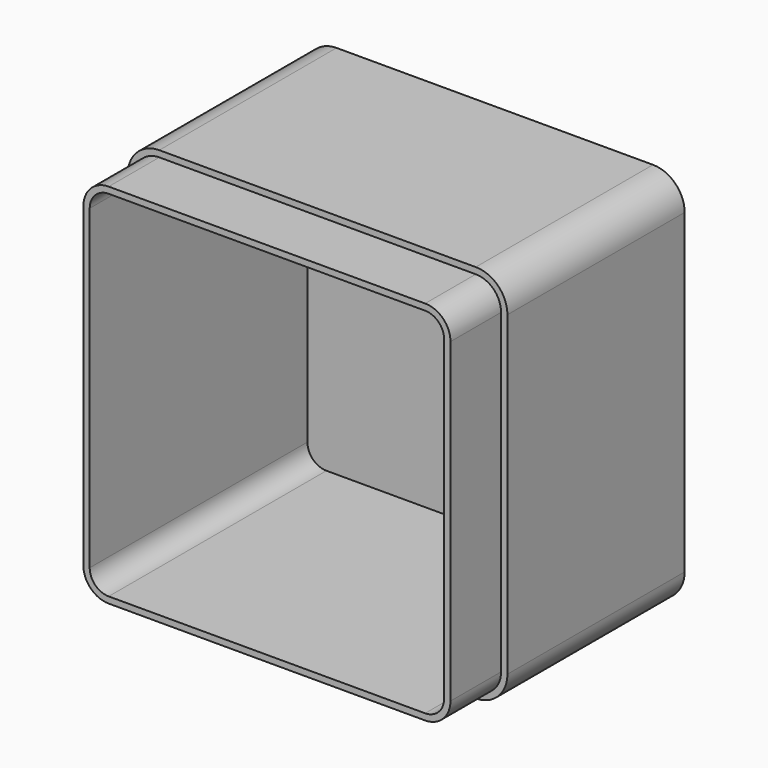
from build123d import *

# Parameters (mm, degrees)
F0_W     = 120
F0_H     = 120
F1_DEPTH = 90
F2_R     = 10
F3_T     = -4
F5_DEPTH = 20


with BuildPart() as f1:
    # F0 (on Front) → F1 (new body)
    with BuildSketch(Plane.XZ):
        with Locations((11.5896239877, 12.3393032681)):
            Rectangle(F0_W, F0_H)
    extrude(amount=F1_DEPTH)

    # F2
    f2_edges = [f1.edges().sort_by_distance(p)[0] for p in [
        (71.589624, -45, 72.339303),
        (-48.410376, -45, 72.339303),
        (71.589624, -45, -47.660697),
        (-48.410376, -45, -47.660697),
    ]]
    fillet(f2_edges, radius=F2_R)

    # F3
    f3_openings = [f1.faces().sort_by_distance(p)[0] for p in [
        (11.589624, -90, 12.339303),
    ]]
    offset(amount=F3_T, openings=f3_openings)

    # F4 (on face) → F5 (cut)
    with BuildSketch(Plane.XZ.offset(90)):
        with BuildLine():
            ThreePointArc((-38.4103760123, 72.3393032681), (-45.4814438242, 69.41037108), (-48.4103760123, 62.3393032681))
            Line((-48.4103760123, 62.3393032681), (-48.4103760123, -37.6606967319))
            ThreePointArc((-48.4103760123, -37.6606967319), (-45.4814438242, -44.7317645437), (-38.4103760123, -47.6606967319))
            Line((-38.4103760123, -47.6606967319), (61.5896239877, -47.6606967319))
            ThreePointArc((61.5896239877, -47.6606967319), (68.6606917995, -44.7317645437), (71.5896239877, -37.6606967319))
            Line((71.5896239877, -37.6606967319), (71.5896239877, 62.3393032681))
            ThreePointArc((71.5896239877, 62.3393032681), (68.6606917995, 69.41037108), (61.5896239877, 72.3393032681))
            Line((61.5896239877, 72.3393032681), (-38.4103760123, 72.3393032681))
        make_face()
        with BuildLine():
            ThreePointArc((-46.4103743434, 62.3393032681), (-44.0672290817, 67.9961563375), (-38.4103760123, 70.3393015992))
            Line((-38.4103760123, 70.3393015992), (61.5896239877, 70.3393015992))
            ThreePointArc((61.5896239877, 70.3393015992), (67.2464770571, 67.9961563375), (69.5896223187, 62.3393032681))
            Line((69.5896223187, 62.3393032681), (69.5896223187, -37.6606967319))
            ThreePointArc((69.5896223187, -37.6606967319), (67.2464770571, -43.3175498012), (61.5896239877, -45.6606950629))
            Line((61.5896239877, -45.6606950629), (-38.4103760123, -45.6606950629))
            ThreePointArc((-38.4103760123, -45.6606950629), (-44.0672290817, -43.3175498012), (-46.4103743434, -37.6606967319))
            Line((-46.4103743434, -37.6606967319), (-46.4103743434, 62.3393032681))
        make_face(mode=Mode.SUBTRACT)
        with BuildLine():
            Line((-44.4103760123, 62.3393032681), (-44.4103760123, -37.6606967319))
            ThreePointArc((-44.4103760123, -37.6606967319), (-42.6530166994, -41.903337419), (-38.4103760123, -43.6606967319))
            Line((-38.4103760123, -43.6606967319), (61.5896239877, -43.6606967319))
            ThreePointArc((61.5896239877, -43.6606967319), (65.8322646748, -41.903337419), (67.5896239877, -37.6606967319))
            Line((67.5896239877, -37.6606967319), (67.5896239877, 62.3393032681))
            ThreePointArc((67.5896239877, 62.3393032681), (65.8322646748, 66.5819439553), (61.5896239877, 68.3393032681))
            Line((61.5896239877, 68.3393032681), (-38.4103760123, 68.3393032681))
            ThreePointArc((-38.4103760123, 68.3393032681), (-42.6530166994, 66.5819439553), (-44.4103760123, 62.3393032681))
        make_face()
    extrude(amount=-F5_DEPTH, mode=Mode.SUBTRACT)


solid = f1.part
